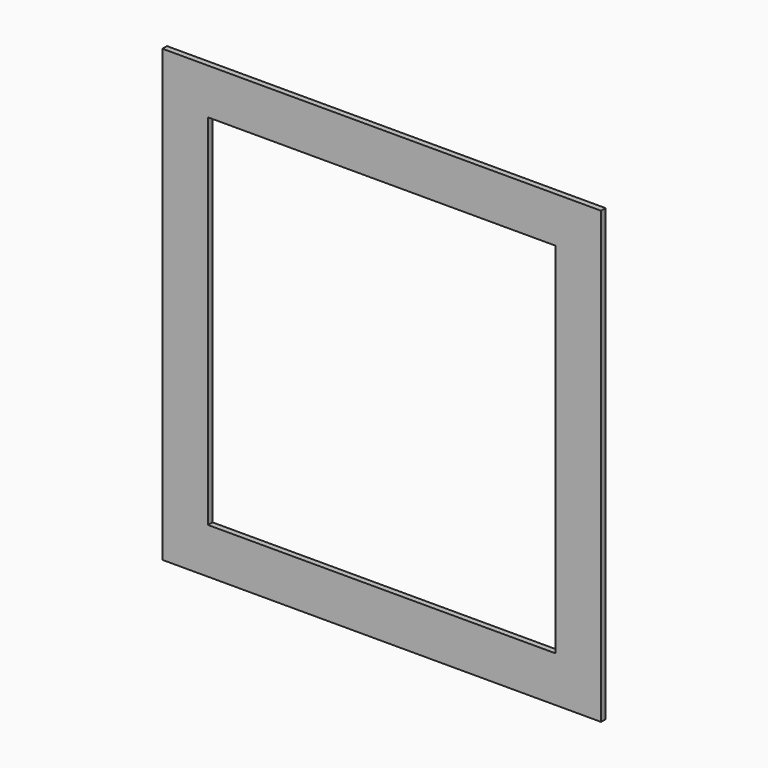
from build123d import *

# Parameters (mm, degrees)
SKETCH_W   = 488.95
SKETCH_H   = 501.65
SKETCH_W_2 = 387.35
SKETCH_H_2 = 400.05
PAD_DEPTH  = 6.35


with BuildPart() as part:
    # Sketch → Pad (new body)
    with BuildSketch(Plane.XZ):
        Rectangle(SKETCH_W, SKETCH_H)
        Rectangle(SKETCH_W_2, SKETCH_H_2, mode=Mode.SUBTRACT)
    extrude(amount=PAD_DEPTH)


solid = part.part
